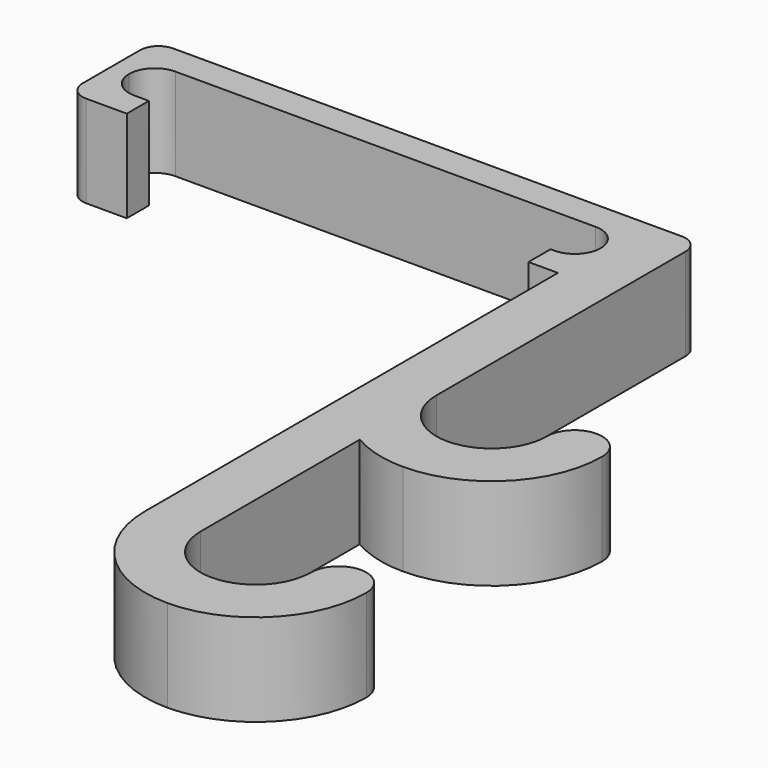
from build123d import *

# Parameters (mm, degrees)
F1_DEPTH = 15.875


with BuildPart() as f1:
    # F0 (on Top) → F1 (new body)
    with BuildSketch(Plane.XY):
        with BuildLine():
            Line((90.805, 0), (3.175, 0))
            ThreePointArc((3.175, 0), (0.929936, -0.929936), (0, -3.175))
            Line((0, -3.175), (0, -15.5575))
            ThreePointArc((0, -15.5575), (0.929936, -17.802564), (3.175, -18.7325))
            Line((3.175, -18.7325), (10.16, -18.7325))
            Line((10.16, -18.7325), (10.16, -13.97))
            Line((10.16, -13.97), (7.62, -13.97))
            ThreePointArc((7.62, -13.97), (4.47691, -12.66809), (3.175, -9.525))
            ThreePointArc((3.175, -9.525), (4.47691, -6.38191), (7.62, -5.08))
            Line((7.62, -5.08), (80.01, -5.08))
            ThreePointArc((80.01, -5.08), (83.15309, -6.38191), (84.455, -9.525))
            ThreePointArc((84.455, -9.525), (83.15309, -12.66809), (80.01, -13.97))
            Line((80.01, -13.97), (79.375, -13.97))
            Line((79.375, -13.97), (79.375, -18.7325))
            Line((79.375, -18.7325), (84.455, -18.7325))
            Line((84.455, -18.7325), (84.455, -56.8325))
            Line((84.455, -56.8325), (84.455, -107.6325))
            ThreePointArc((84.455, -107.6325), (90.034616, -121.102884), (103.505, -126.6825))
            ThreePointArc((103.505, -126.6825), (116.975384, -121.102884), (122.555, -107.6325))
            ThreePointArc((122.555, -107.6325), (117.7925, -102.87), (113.03, -107.6325))
            ThreePointArc((113.03, -107.6325), (110.240192, -114.367692), (103.505, -117.1575))
            ThreePointArc((103.505, -117.1575), (96.769808, -114.367692), (93.98, -107.6325))
            Line((93.98, -107.6325), (93.98, -73.330284))
            ThreePointArc((93.98, -73.330284), (98.574497, -75.233387), (103.505, -75.8825))
            ThreePointArc((103.505, -75.8825), (116.975384, -70.302884), (122.555, -56.8325))
            ThreePointArc((122.555, -56.8325), (117.7925, -52.07), (113.03, -56.8325))
            ThreePointArc((113.03, -56.8325), (110.240192, -63.567692), (103.505, -66.3575))
            ThreePointArc((103.505, -66.3575), (96.769808, -63.567692), (93.98, -56.8325))
            Line((93.98, -56.8325), (93.98, -3.175))
            ThreePointArc((93.98, -3.175), (93.050064, -0.929936), (90.805, 0))
        make_face()
    extrude(amount=F1_DEPTH)


solid = f1.part
